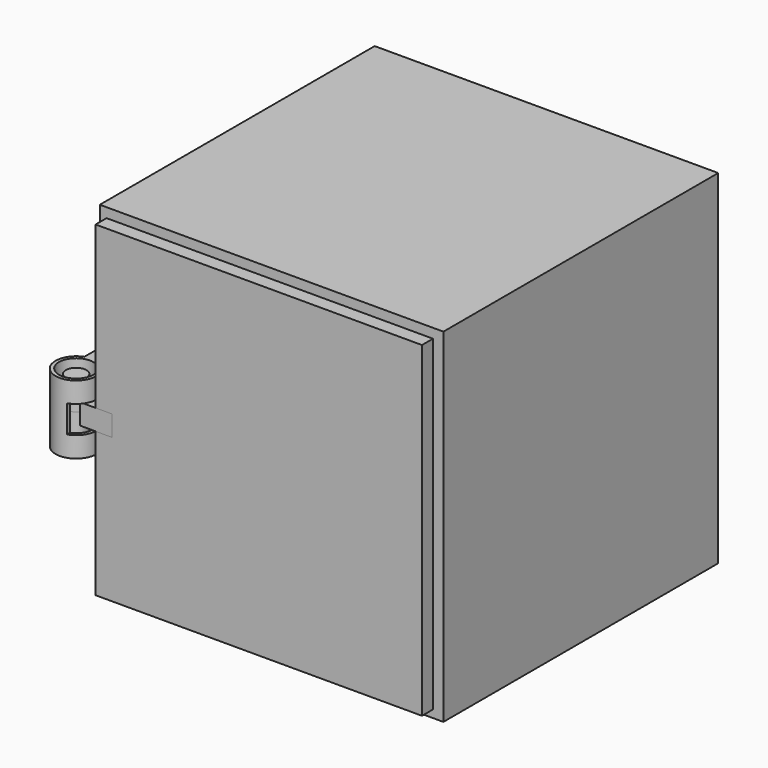
from build123d import *

# Parameters (mm, degrees)
F0_W      = 127
F0_H      = 127
F1_DEPTH  = 127
F2_T      = -5.08
F3_W      = 20.32
F3_H      = 25.4
F4_DEPTH  = 5.08
F5_R      = 7.62
F6_DEPTH  = 25.4
F7_R      = 6.35
F8_DEPTH  = 65.024
F9_W      = 7.62
F9_H      = 10.16
F10_DEPTH = 30.226
F11_R     = 3.81
F12_DEPTH = 10.414
F15_W     = 120.65
F15_H     = 120.65
F16_DEPTH = 5.08
F17_W     = 12.7
F17_H     = 7.62
F18_DEPTH = 5.08
F19_R     = 3.81
F20_DEPTH = 11.938


with BuildPart() as f1:
    # F0 (on Front) → F1 (new body)
    with BuildSketch(Plane.XZ):
        with Locations((0.6525404751, -0.5031868781)):
            Rectangle(F0_W, F0_H)
    extrude(amount=F1_DEPTH)

    # F2
    f2_openings = [f1.faces().sort_by_distance(p)[0] for p in [
        (0.65254, -127, -0.503187),
    ]]
    offset(amount=F2_T, openings=f2_openings)

    # F3 (on face) → F4 (join)
    with BuildSketch(Plane(origin=(-62.8474595249, 0, 0), x_dir=(0, -1, 0), z_dir=(-1, 0, 0))):
        with Locations((117.6391393873, -0.5031868781)):
            Rectangle(F3_W, F3_H)
    extrude(amount=F4_DEPTH)

    # F5 (on face) → F6 (join)
    with BuildSketch(Plane(origin=(0, 0, -13.2031868781), x_dir=(1, 0, 0), z_dir=(0, 0, -1))):
        with Locations((-65.2307569981, 134.9557340145)):
            Circle(F5_R)
    extrude(amount=-F6_DEPTH)

    # F7 (on face) → F8 (cut)
    with BuildSketch(Plane.XY.offset(12.1968131219)):
        with Locations((-65.2307569981, -134.9557340145)):
            Circle(F7_R)
    extrude(amount=-F8_DEPTH, mode=Mode.SUBTRACT)

    # F9 (on face) → F10 (cut)
    with BuildSketch(Plane.XZ.offset(127)):
        with Locations((-59.0374595249, -0.5031868781)):
            Rectangle(F9_W, F9_H)
    extrude(amount=F10_DEPTH, mode=Mode.SUBTRACT)


with BuildPart() as f12:
    # F11 (on Top) → F12 (new body)
    with BuildSketch(Plane.XY):
        with Locations((-65.2307569981, -134.9557340145)):
            Circle(F11_R)
    extrude(amount=F12_DEPTH)


with BuildPart() as f16:
    # F15 (on offset) → F16 (new body)
    with BuildSketch(Plane.XZ.offset(132.08)):
        with Locations((4.0387048304, 2.5092192822)):
            Rectangle(F15_W, F15_H)
    extrude(amount=F16_DEPTH)


with BuildPart() as f18:
    # F17 (on face) → F18 (new body)
    with BuildSketch(Plane.XZ.offset(137.16)):
        with Locations((-56.6423790693, -0.6657807178)):
            Rectangle(F17_W, F17_H)
    extrude(amount=-F18_DEPTH)


with BuildPart() as f20:
    # F19 (on offset) → F20 (new body)
    with BuildSketch(Plane(origin=(0, 0, 0), x_dir=(1, 0, 0), z_dir=(0, 0, -1))):
        with Locations((-65.2307569981, 134.9557340145)):
            Circle(F19_R)
    extrude(amount=F20_DEPTH)


solid = Compound([f1.part, f12.part, f16.part, f18.part, f20.part])
